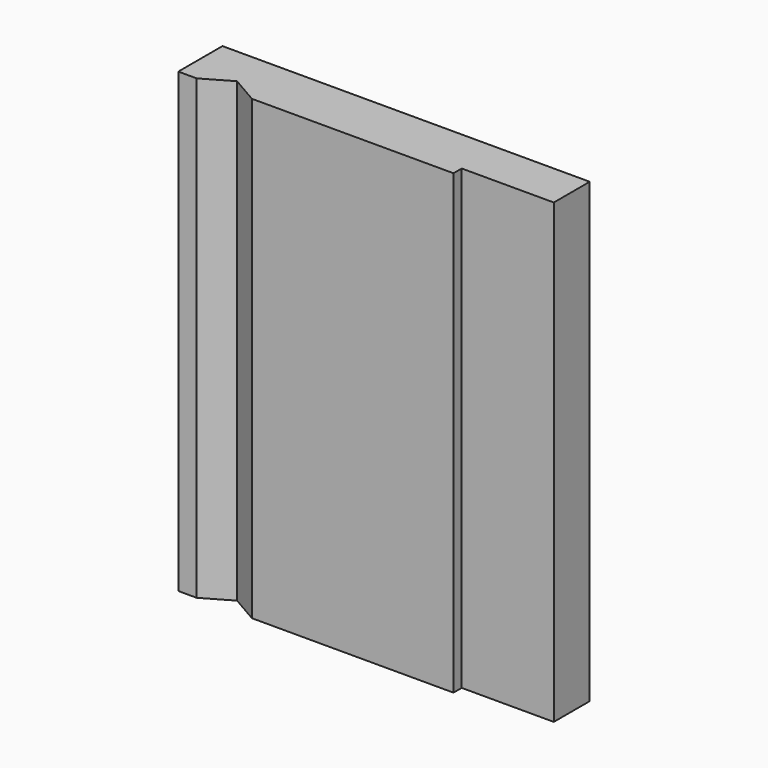
from build123d import *

# Parameters (mm, degrees)
SKETCH011_W             = 19.95
SKETCH011_H             = 24.84
PAD002_DEPTH            = 3
POCKET008_DEPTH         = 12.421
POCKET008_DEPTH_BACK    = 12.421
SKETCH013_W             = 5
SKETCH013_H             = 0.56
POCKET009_DEPTH         = 12.421
POCKET009_DEPTH_BACK    = 12.421
BODY002_PLACEMENT_ANGLE = 270


with BuildPart() as part:
    # Sketch011 (on XY_Plane011 of Origin030) → Pad002 (new body)
    with BuildSketch(Plane.XY):
        with Locations((2.325, 0)):
            Rectangle(SKETCH011_W, SKETCH011_H)
    extrude(amount=PAD002_DEPTH)

    # Sketch012 (on XZ_Plane011 of Origin030) → Pocket008 (cut, two sides)
    with BuildSketch(Plane.XZ) as pocket008_sk:
        Polygon((-5.15, 0.866025), (-6.65, 0), (-3.65, 0), align=None)
    extrude(amount=-POCKET008_DEPTH, mode=Mode.SUBTRACT)
    extrude(pocket008_sk.sketch, amount=POCKET008_DEPTH_BACK, mode=Mode.SUBTRACT)

    # Sketch013 (on XZ_Plane011 of Origin030) → Pocket009 (cut, two sides)
    with BuildSketch(Plane.XZ) as pocket009_sk:
        with Locations((9.8, 0.28)):
            Rectangle(SKETCH013_W, SKETCH013_H)
    extrude(amount=-POCKET009_DEPTH, mode=Mode.SUBTRACT)
    extrude(pocket009_sk.sketch, amount=POCKET009_DEPTH_BACK, mode=Mode.SUBTRACT)


with BuildPart() as part_1:
    # Body002 placement: moved
    add(part.part.moved(Location((-1, 5.33, 42.62))).rotate(Axis((-1, 5.33, 42.62), (1, 0, 0)), BODY002_PLACEMENT_ANGLE))


solid = part_1.part
